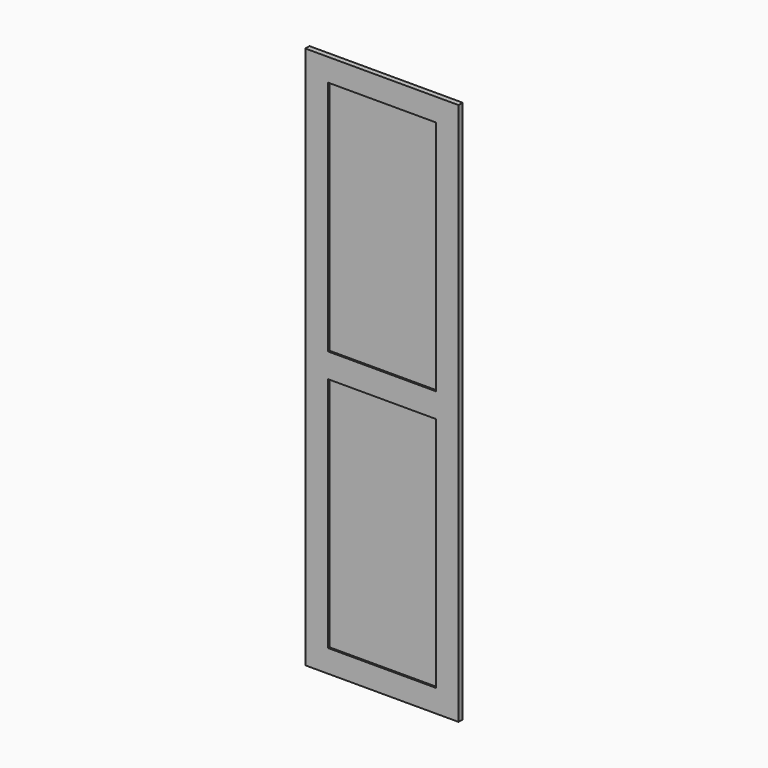
from build123d import *

# Parameters (mm, degrees)
F0_W     = 558.8
F0_H     = 1981.2
F1_DEPTH = 19.05
F2_W     = 393.7
F2_H     = 863.6
F3_DEPTH = 6.35


with BuildPart() as f1:
    # F0 (on Front) → F1 (new body)
    with BuildSketch(Plane.XZ):
        with Locations((1.273108, 439.16639)):
            Rectangle(F0_W, F0_H)
    extrude(amount=-F1_DEPTH)

    # F2 (on face) → F3 (cut)
    with BuildSketch(Plane.XZ):
        with Locations((1.273108, 915.41639)):
            Rectangle(F2_W, F2_H)
        with Locations((1.273108, -37.08361)):
            Rectangle(F2_W, F2_H)
    extrude(amount=-F3_DEPTH, mode=Mode.SUBTRACT)


solid = f1.part
